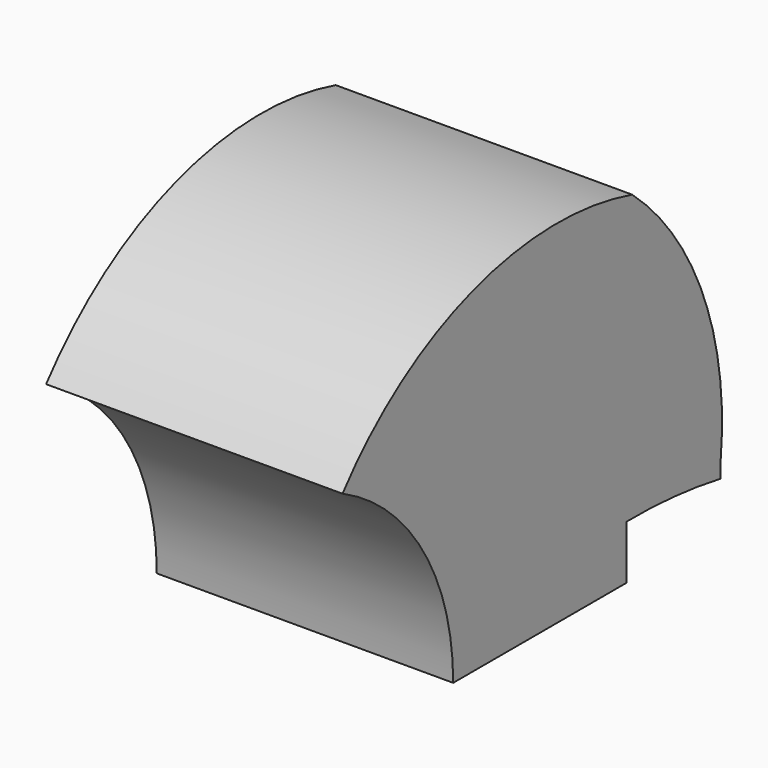
from build123d import *

# Parameters (mm, degrees)
F1_DEPTH = 50
F0_R     = 13.9702568805
F2_DEPTH = 50


with BuildPart() as f1:
    # F0 (on Right) → F1 (new body)
    with BuildSketch(Plane.YZ):
        with BuildLine():
            ThreePointArc((-23.3386635437, 37.5817110032), (-10.4959332457, 36.3922602564), (0, 28.8965348154))
            Line((0, 28.8965348154), (36.5925990045, 28.8965348154))
            ThreePointArc((36.5925990045, 28.8965348154), (50.2831230398, 23.4080109269), (56.3909549354, 9.982336554))
            ThreePointArc((56.3909549354, 9.982336554), (52.8442938775, 35.8554366591), (37.7408340573, 57.1599341929))
            ThreePointArc((37.7408340573, 57.1599341929), (4.2470007801, 56.5868783127), (-23.3386635437, 37.5817110032))
        make_face()
    extrude(amount=F1_DEPTH)

    # F0 (on Right) → F2 (join)
    with BuildSketch(Plane.YZ):
        with BuildLine():
            ThreePointArc((-23.3386635437, 37.5817110032), (-10.4959332457, 36.3922602564), (0, 28.8965348154))
            Line((0, 28.8965348154), (36.5925990045, 28.8965348154))
            ThreePointArc((36.5925990045, 28.8965348154), (50.2831230398, 23.4080109269), (56.3909549354, 9.982336554))
            ThreePointArc((56.3909549354, 9.982336554), (52.8442938775, 35.8554366591), (37.7408340573, 57.1599341929))
            ThreePointArc((37.7408340573, 57.1599341929), (4.2470007801, 56.5868783127), (-23.3386635437, 37.5817110032))
        make_face()
        Polygon((0, 28.8965348154), (0, 0), (36.5925990045, 0), (36.5925990045, 9.0775135945), (36.5925990045, 28.8965348154), align=None)
        with Locations((17.13462919, 14.6660804749)):
            Circle(F0_R, mode=Mode.SUBTRACT)
        with Locations((17.13462919, 14.6660804749)):
            Circle(F0_R)
        with BuildLine():
            Line((36.5925990045, 28.8965348154), (36.5925990045, 9.0775135945))
            ThreePointArc((36.5925990045, 9.0775135945), (46.5075027592, 8.7225046913), (56.3409775496, 7.4056442827))
            ThreePointArc((56.3409775496, 7.4056442827), (56.4078932918, 8.6931772035), (56.3909549354, 9.982336554))
            ThreePointArc((56.3909549354, 9.982336554), (50.2831230398, 23.4080109269), (36.5925990045, 28.8965348154))
        make_face()
        with BuildLine():
            ThreePointArc((-23.3386635437, 37.5817110032), (-6.3093916128, 22.1194383853), (0, 0))
            Line((0, 0), (0, 28.8965348154))
            ThreePointArc((0, 28.8965348154), (-10.4959332457, 36.3922602564), (-23.3386635437, 37.5817110032))
        make_face()
    extrude(amount=F2_DEPTH)


solid = f1.part
